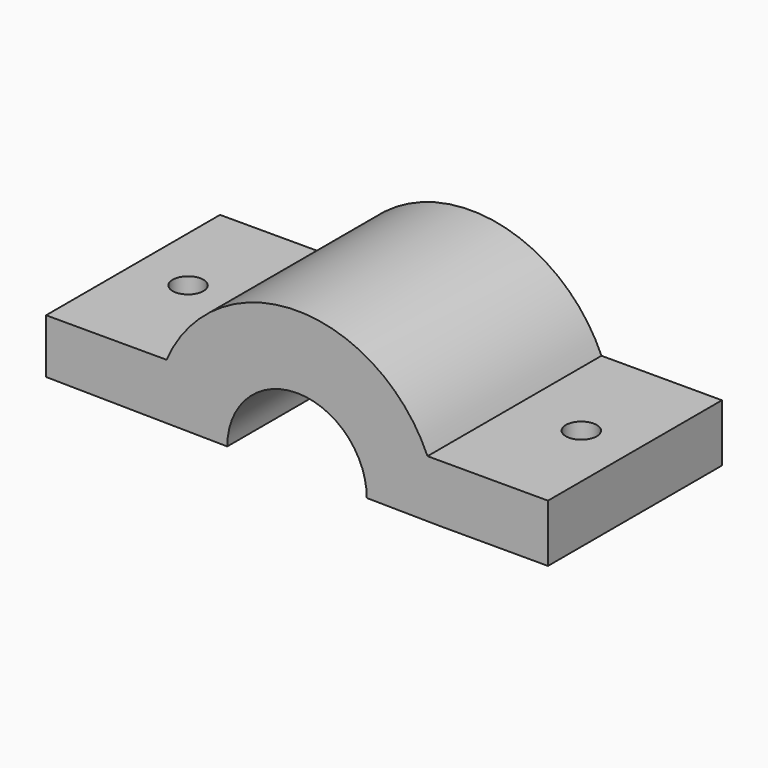
from build123d import *

# Parameters (mm, degrees)
F1_DEPTH = 24
F2_R     = 1.7
F3_DEPTH = 25


with BuildPart() as f1:
    # F0 (on Front) → F1 (new body)
    with BuildSketch(Plane.XZ):
        with BuildLine():
            ThreePointArc((-7.7, -0.172106), (0, 7.527894), (7.7, -0.172106))
            Line((7.7, -0.172106), (15.699692, -0.270456))
            Line((15.699692, -0.270456), (27.699692, -0.270456))
            Line((27.699692, -0.270456), (27.699692, 6.073763))
            Line((27.699692, 6.073763), (14.404135, 6.073763))
            ThreePointArc((14.404135, 6.073763), (0, 15.527894), (-14.404135, 6.073763))
            Line((-14.404135, 6.073763), (-27.698785, 6.073763))
            Line((-27.698785, 6.073763), (-27.698785, 0.073763))
            Line((-27.698785, 0.073763), (-15.699692, -0.073756))
            Line((-15.699692, -0.073756), (-7.7, -0.172106))
        make_face()
    extrude(amount=F1_DEPTH)

    # F2 (on face) → F3 (cut)
    with BuildSketch(Plane(origin=(-0.003279, 0, -0.266731), x_dir=(0.999924, 0, -0.012293), z_dir=(-0.012293, 0, -0.999924))):
        with Locations((-21.7, 12)):
            Circle(F2_R)
        with Locations((21.7, 12)):
            Circle(F2_R)
    extrude(amount=-F3_DEPTH, mode=Mode.SUBTRACT)


solid = f1.part
